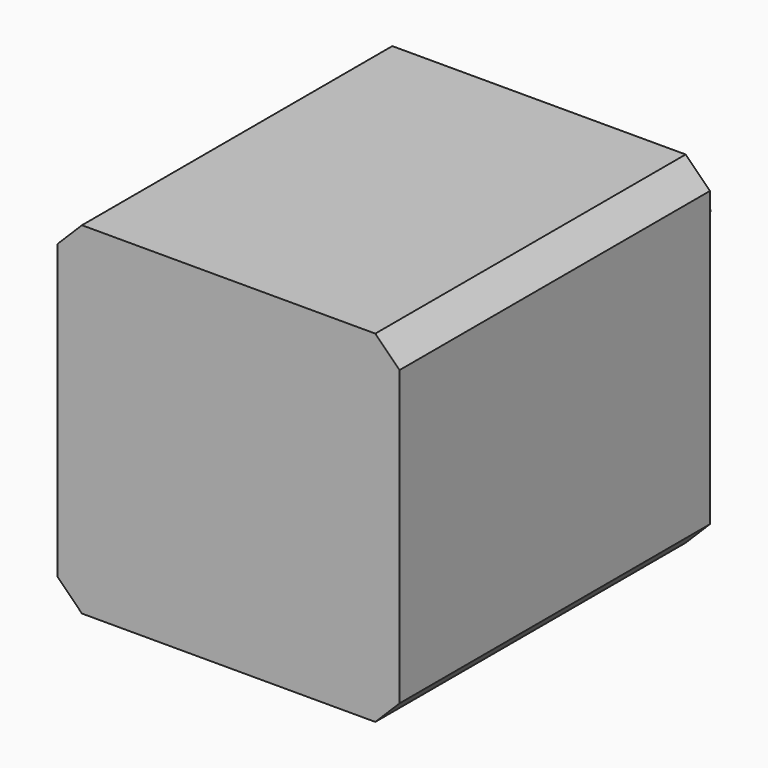
from build123d import *

# Parameters (mm, degrees)
F0_W     = 42.3
F0_H     = 42.3
F0_R     = 2
F1_DEPTH = 48
F2_DEPTH = 24
F3_SIZE  = 3


with BuildPart() as f1:
    # F0 (on Front) → F1 (new body)
    with BuildSketch(Plane.XZ):
        Rectangle(F0_W, F0_H)
        Circle(F0_R, mode=Mode.SUBTRACT)
        Circle(F0_R)
    extrude(amount=F1_DEPTH)

    # F0 (on Front) → F2 (join)
    with BuildSketch(Plane.XZ):
        Circle(F0_R)
    extrude(amount=-F2_DEPTH)

    # F3
    f3_edges = [f1.edges().sort_by_distance(p)[0] for p in [
        (21.15, -24, 21.15),
        (-21.15, -24, 21.15),
        (21.15, -24, -21.15),
        (-21.15, -24, -21.15),
    ]]
    chamfer(f3_edges, length=F3_SIZE)


solid = f1.part
